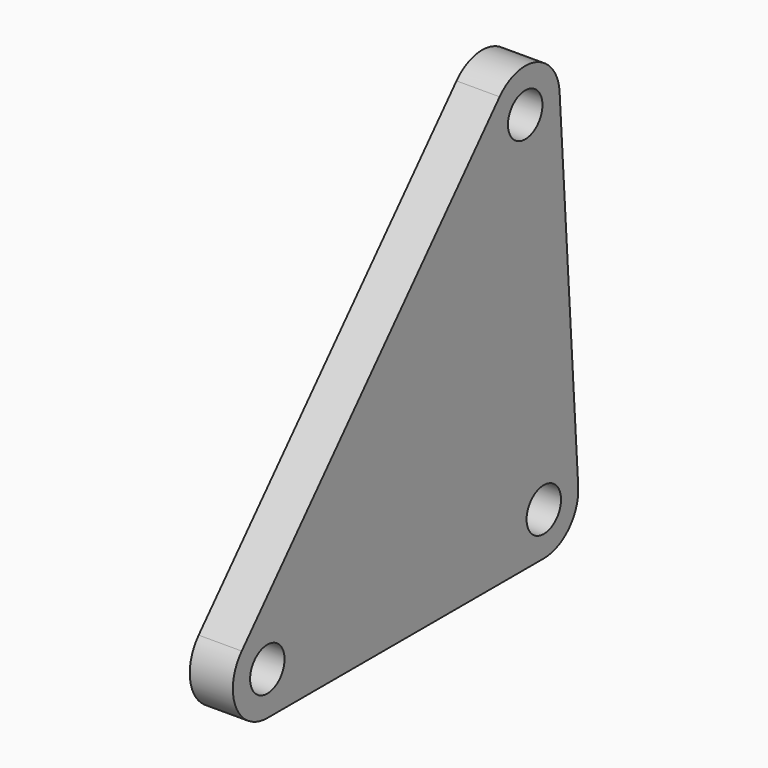
from build123d import *

# Parameters (mm, degrees)
F0_R     = 6.35
F1_DEPTH = 12.7


with BuildPart() as f1:
    # F0 (on Right) → F1 (new body)
    with BuildSketch(Plane.YZ):
        with BuildLine():
            ThreePointArc((5.812539, 106.013077), (-2.688809, 117.181785), (-16.285848, 113.698466))
            Line((-16.285848, 113.698466), (-111.279314, 8.511959))
            ThreePointArc((-111.279314, 8.511959), (-113.459858, -5.156943), (-101.854, -12.7))
            Line((-101.854, -12.7), (0, -12.7))
            ThreePointArc((0, -12.7), (9.267887, -8.683103), (12.673073, 0.82657))
            Line((12.673073, 0.82657), (5.812539, 106.013077))
        make_face()
        with Locations((-101.854, 0)):
            Circle(F0_R, mode=Mode.SUBTRACT)
        Circle(F0_R, mode=Mode.SUBTRACT)
        with Locations((-6.860534, 105.186507)):
            Circle(F0_R, mode=Mode.SUBTRACT)
    extrude(amount=F1_DEPTH)


solid = f1.part
